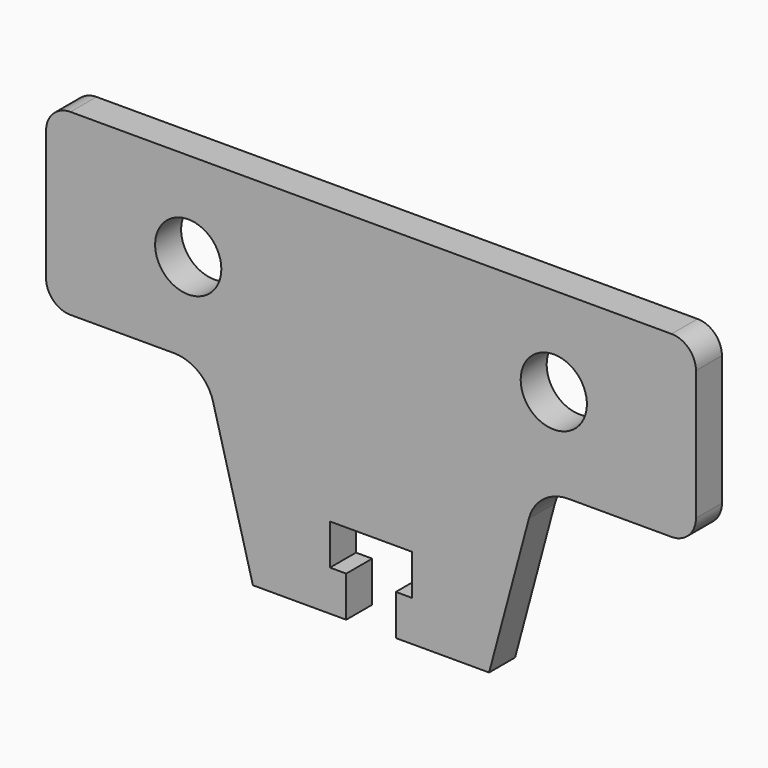
from build123d import *

# Parameters (mm, degrees)
F0_R     = 4.075
F1_DEPTH = 4


with BuildPart() as f1:
    # F0 (on Front) → F1 (new body)
    with BuildSketch(Plane.XZ):
        with BuildLine():
            Line((0, -34), (0, 0))
            Line((0, 0), (-37, 0))
            ThreePointArc((-37, 0), (-39.12132, -0.87868), (-40, -3))
            Line((-40, -3), (-40, -19))
            ThreePointArc((-40, -19), (-39.12132, -21.12132), (-37, -22))
            Line((-37, -22), (-24.271517, -22))
            ThreePointArc((-24.271517, -22), (-21.22771, -23.033233), (-19.441888, -25.705905))
            Line((-19.441888, -25.705905), (-14.54, -44))
            Line((-14.54, -44), (-3.05, -44))
            Line((-3.05, -44), (-3.05, -39))
            Line((-3.05, -39), (-5.05, -39))
            Line((-5.05, -39), (-5.05, -34))
            Line((-5.05, -34), (0, -34))
        make_face()
        with Locations((-22.5, -11)):
            Circle(F0_R, mode=Mode.SUBTRACT)
    extrude(amount=F1_DEPTH)

    # F2: F1 across face


with BuildPart() as f1_1:
    add(f1.part)
    add(f1.part.mirror(Plane(origin=(0, -2, -17), x_dir=(0, 1, 0), z_dir=(1, 0, 0))))


solid = f1_1.part
